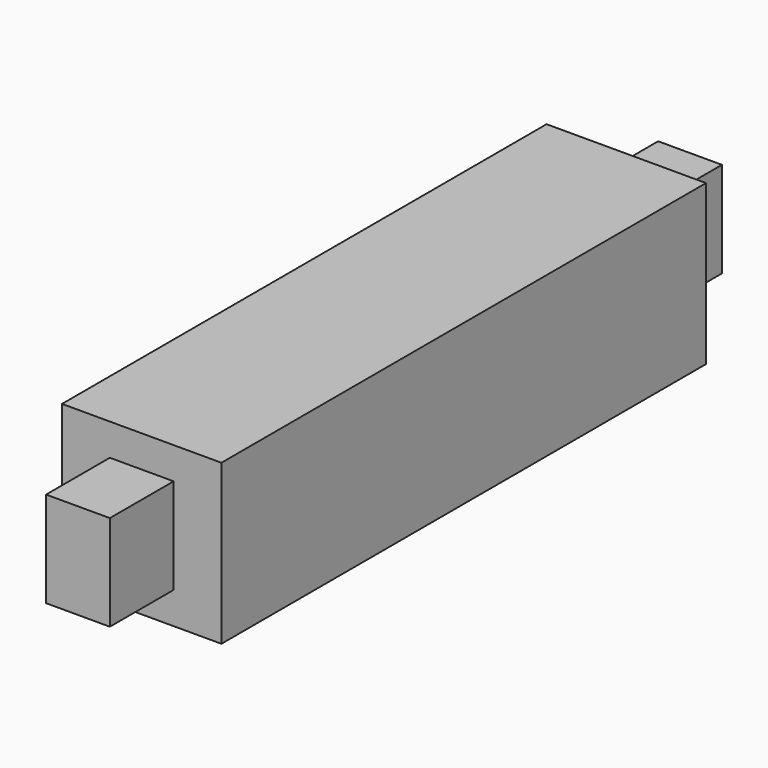
from build123d import *

# Parameters (mm, degrees)
F0_W     = 50
F0_H     = 50
F0_W_2   = 20
F0_H_2   = 30
F1_DEPTH = 240
F2_DEPTH = 25
F3_W     = 50
F3_H     = 50
F3_W_2   = 20
F3_H_2   = 30
F4_DEPTH = 25
F6_D     = 20
F6_DEPTH = 20
F6_TIP   = 6.0086061903


with BuildPart() as f1:
    # F0 (on Front) → F1 (new body)
    with BuildSketch(Plane.XZ):
        Rectangle(F0_W, F0_H)
        Rectangle(F0_W_2, F0_H_2, mode=Mode.SUBTRACT)
        Rectangle(F0_W_2, F0_H_2)
    extrude(amount=-F1_DEPTH)

    # F0 (on Front) → F2 (cut)
    with BuildSketch(Plane.XZ):
        Rectangle(F0_W, F0_H)
        Rectangle(F0_W_2, F0_H_2, mode=Mode.SUBTRACT)
    extrude(amount=-F2_DEPTH, mode=Mode.SUBTRACT)

    # F3 (on face) → F4 (cut)
    with BuildSketch(Plane(origin=(0, 240, 0), x_dir=(-1, 0, 0), z_dir=(0, 1, 0))):
        Rectangle(F3_W, F3_H)
        Rectangle(F3_W_2, F3_H_2, mode=Mode.SUBTRACT)
    extrude(amount=-F4_DEPTH, mode=Mode.SUBTRACT)

    # F6
    with Locations(Plane(origin=(-25, 0, 0), x_dir=(0, -1, 0), z_dir=(-1, 0, 0))):
        with Locations((-120, 0)):
            Hole(F6_D / 2, depth=F6_DEPTH)
            with Locations((0, 0, -(F6_DEPTH + F6_TIP / 2))):  # 118° drill point
                Cone(0, F6_D / 2, F6_TIP, mode=Mode.SUBTRACT)


solid = f1.part
